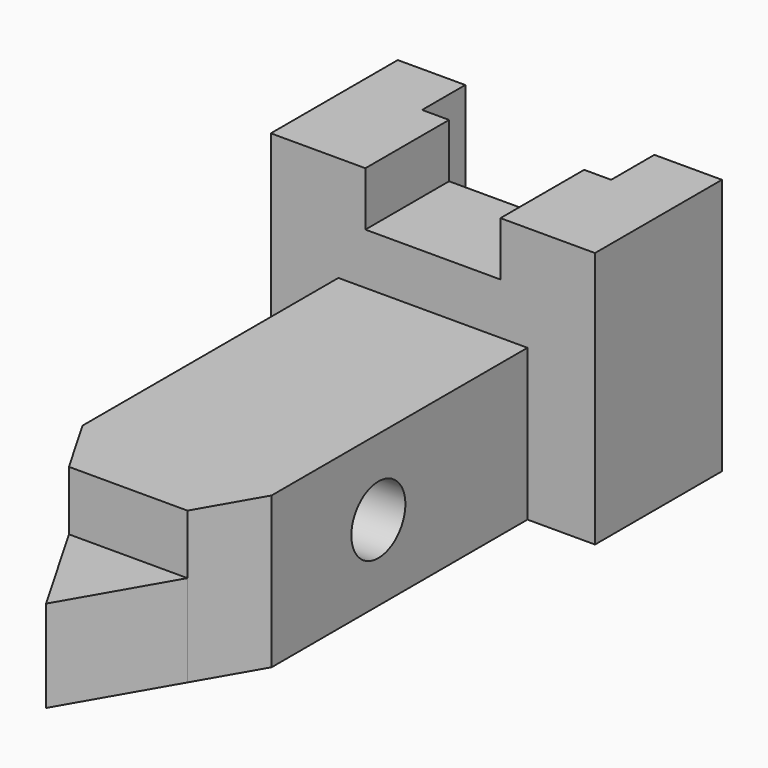
from build123d import *

# Parameters (mm, degrees)
F1_DEPTH = 48.26
F2_DEPTH = 28.448
F3_DEPTH = 17.272
F4_W     = 25.4
F4_H     = 10.16
F5_DEPTH = 25.4
F6_R     = 6.35
F7_DEPTH = 48.261


with BuildPart() as f1:
    # F0 (on Top) → F1 (new body)
    with BuildSketch(Plane.XY):
        Polygon((-12.7, 0), (0, 0), (35.56, 0), (48.26, 0), (48.26, 29.835004), (35.56, 29.835004), (35.56, 19.675004), (0, 19.675004), (0, 29.835004), (-12.7, 29.835004), align=None)
    extrude(amount=F1_DEPTH)

    # F0 (on Top) → F2 (join)
    with BuildSketch(Plane.XY):
        Polygon((35.56, 0), (0, 0), (0, -60.136137), (6.63483, -71.628), (28.92517, -71.628), (35.56, -60.136137), align=None)
    extrude(amount=F2_DEPTH)

    # F0 (on Top) → F3 (join)
    with BuildSketch(Plane.XY):
        Polygon((28.92517, -71.628), (6.63483, -71.628), (17.78, -90.932), align=None)
    extrude(amount=F3_DEPTH)

    # F4 (on face) → F5 (cut)
    with BuildSketch(Plane.XZ):
        with Locations((17.78, 43.18)):
            Rectangle(F4_W, F4_H)
    extrude(amount=-F5_DEPTH, mode=Mode.SUBTRACT)

    # F6 (on face) → F7 (cut, through all)
    with BuildSketch(Plane(origin=(0, 0, 0), x_dir=(0, -1, 0), z_dir=(-1, 0, 0))):
        with Locations((35.052, 14.224)):
            Circle(F6_R)
    extrude(amount=-F7_DEPTH, mode=Mode.SUBTRACT)


solid = f1.part
